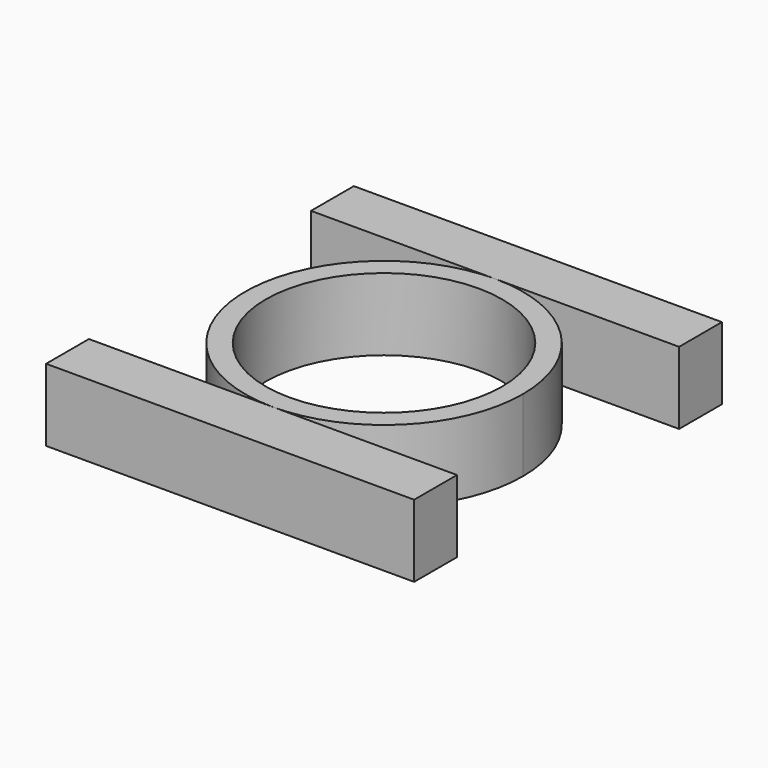
from build123d import *

# Parameters (mm, degrees)
F0_R     = 11.432503
F0_W     = 17.810369
F0_H     = 5.180245
F0_W_2   = 17.81
F1_DEPTH = 7


with BuildPart() as f1:
    # F0 (on Top) → F1 (new body)
    with BuildSketch(Plane.XY):
        with BuildLine():
            ThreePointArc((0, -13.432503), (9.498214, -9.498214), (13.432503, 0))
            ThreePointArc((13.432503, 0), (9.498214, 9.498214), (0, 13.432503))
            ThreePointArc((0, 13.432503), (-13.432503, 0), (0, -13.432503))
        make_face()
        Circle(F0_R, mode=Mode.SUBTRACT)
        Polygon((17.81, -13.432503), (0, -13.432503), (-17.810369, -13.432503), (-17.810369, -18.612748), (0, -18.612748), (17.81, -18.612748), align=None)
        with Locations((-8.905184, 16.022626)):
            Rectangle(F0_W, F0_H)
        with Locations((8.905, 16.022626)):
            Rectangle(F0_W_2, F0_H)
    extrude(amount=F1_DEPTH)


solid = f1.part
